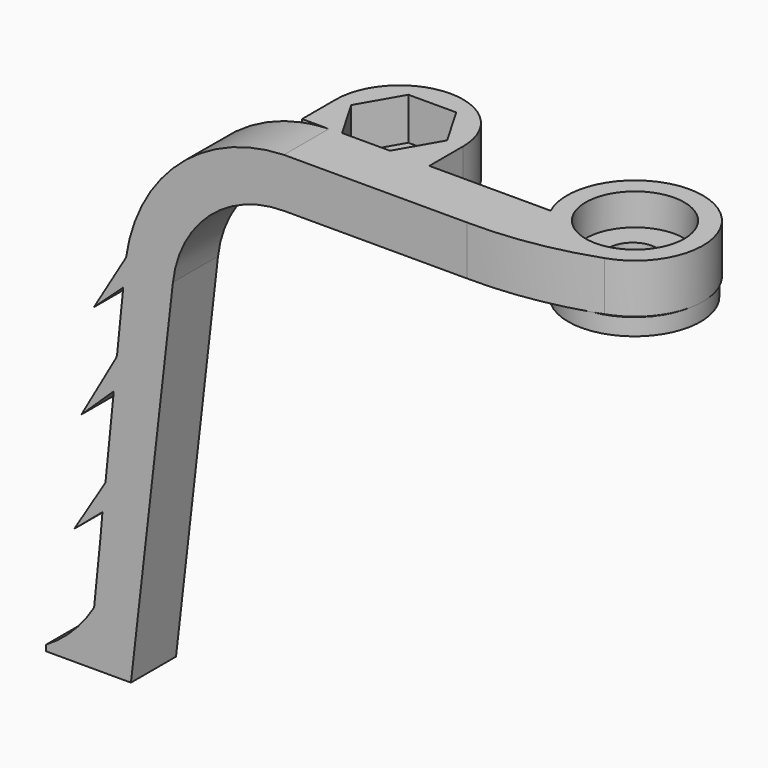
from build123d import *

# Parameters (mm, degrees)
PAD063_DEPTH       = 2
PAD064_DEPTH       = 3.5
SKETCH106_R        = 3.5
POCKET003047_DEPTH = 2.25
SKETCH107_R        = 4.702209
PAD065_DEPTH       = 1.2
SKETCH108_R        = 1.7
POCKET003048_DEPTH = 5
PAD066_DEPTH       = 3.5
SKETCH110_R        = 1.7
POCKET003049_DEPTH = 5
POCKET003050_DEPTH = 3
PAD068_DEPTH       = 4


with BuildPart() as obj1:
    # Sketch104 → Pad063 (new body, symmetric)
    with BuildSketch(Plane.XZ):
        with BuildLine():
            Line((7.19326, 28.01235), (20.118014, 28.01235))
            ThreePointArc((27.996703, 20.985646), (25.396468, 26.000474), (20.118014, 28.01235))
            Line((27.996703, 20.985646), (30.977077, -4.999855))
            Line((33.977077, -4.999855), (30.977077, -4.999855))
            Line((31.375084, 21.001564), (33.977077, -4.999855))
            ThreePointArc((31.375084, 21.001564), (27.724482, 28.375326), (20.118014, 31.51235))
            Line((7.19326, 31.51235), (20.118014, 31.51235))
            Line((7.19326, 28.01235), (7.19326, 31.51235))
        make_face()
    extrude(amount=PAD063_DEPTH, both=True)

    # Sketch105 → Pad064 (new body)
    with BuildSketch(Plane(origin=(0, 0, 31.51235), x_dir=(-1, 0, 0), z_dir=(0, 0, 1))):
        with BuildLine():
            Line((-18, 2), (-18, -2))
            Line((-18, -2), (-4.3876, -2))
            ThreePointArc((-4.3876, -2), (1.938593, -8.415251), (1.496731, 0.583689))
            ThreePointArc((1.496731, 0.583689), (-2.758605, 1.674941), (-7.139591, 2))
            Line((-18, 2), (-7.139591, 2))
        make_face()
    extrude(amount=-PAD064_DEPTH)

    # Sketch106 → Pocket003047 (cut)
    with BuildSketch(Plane(origin=(0, 0, 31.51235), x_dir=(-1, 0, 0), z_dir=(0, 0, 1))):
        with Locations((0, -4)):
            Circle(SKETCH106_R)
    extrude(amount=-POCKET003047_DEPTH, mode=Mode.SUBTRACT)

    # Sketch107 → Pad065 (new body)
    with BuildSketch(Plane(origin=(0, 0, 28.01235), x_dir=(1, 0, 0), z_dir=(0, 0, -1))):
        with Locations((-0.089106, -3.841625)):
            Circle(SKETCH107_R)
    extrude(amount=PAD065_DEPTH)

    # Sketch108 → Pocket003048 (cut)
    with BuildSketch(Plane(origin=(0, 0, 29.26235), x_dir=(-1, 0, 0), z_dir=(0, 0, 1))):
        with Locations((-0.080471, -3.899184)):
            Circle(SKETCH108_R)
    extrude(amount=-POCKET003048_DEPTH, mode=Mode.SUBTRACT)

    # Sketch109 → Pad066 (new body)
    with BuildSketch(Plane(origin=(0, 0, 31.51235), x_dir=(-1, 0, 0), z_dir=(0, 0, 1))):
        with BuildLine():
            Line((-22.021201, -1.987049), (-22.021201, -4.986919))
            ThreePointArc((-22.021201, -4.986919), (-17.510002, -9.511218), (-12.998803, -4.986919))
            Line((-12.998803, -4.986919), (-12.998803, -1.987049))
            Line((-22.021201, -1.987049), (-12.998803, -1.987049))
        make_face()
    extrude(amount=-PAD066_DEPTH)

    # Sketch110 → Pocket003049 (cut)
    with BuildSketch(Plane(origin=(0, 0, 31.51235), x_dir=(-1, 0, 0), z_dir=(0, 0, 1))):
        with Locations((-17.491917, -5)):
            Circle(SKETCH110_R)
    extrude(amount=-POCKET003049_DEPTH, mode=Mode.SUBTRACT)

    # Sketch111 → Pocket003050 (cut)
    with BuildSketch(Plane(origin=(0, 0, 31.51235), x_dir=(-1, 0, 0), z_dir=(0, 0, 1))):
        Polygon((-14.138998, -5.003928), (-15.835596, -2.057479), (-19.235593, -2.053552), (-20.938994, -4.996072), (-19.242396, -7.942521), (-15.842399, -7.946448), align=None)
    extrude(amount=-POCKET003050_DEPTH, mode=Mode.SUBTRACT)

    # Sketch112 → Pad068 (new body)
    with BuildSketch(Plane.XZ.offset(2)):
        with BuildLine():
            Line((27, 28.536497), (32.513573, -5))
            Line((32.513573, -5), (37.000002, -5))
            Line((37.000002, -5), (37.000002, -4.583553))
            ThreePointArc((33.505627, -1), (35.019116, -3.019659), (37.000002, -4.583553))
            Line((33, 5), (33.505627, -1))
            Line((35, 3.304739), (33, 5))
            Line((32.728943, 7), (35, 3.304739))
            Line((32, 13), (32.728943, 7))
            Line((34.496559, 10.608005), (32, 13))
            Line((32, 15), (34.496559, 10.608005))
            Line((31, 20), (32, 15))
            Line((33.606815, 17.606869), (31, 20))
            Line((31, 22), (33.606815, 17.606869))
            Line((27, 28.536497), (31, 22))
        make_face()
    extrude(amount=-PAD068_DEPTH)


with BuildPart() as part_mirroring012:
    # Part__Mirroring012: instance of obj1
    add(obj1.part.mirror(Plane(origin=(0, 0, 0), x_dir=(0, -1, 0), z_dir=(1, 0, 0))))


solid = part_mirroring012.part
